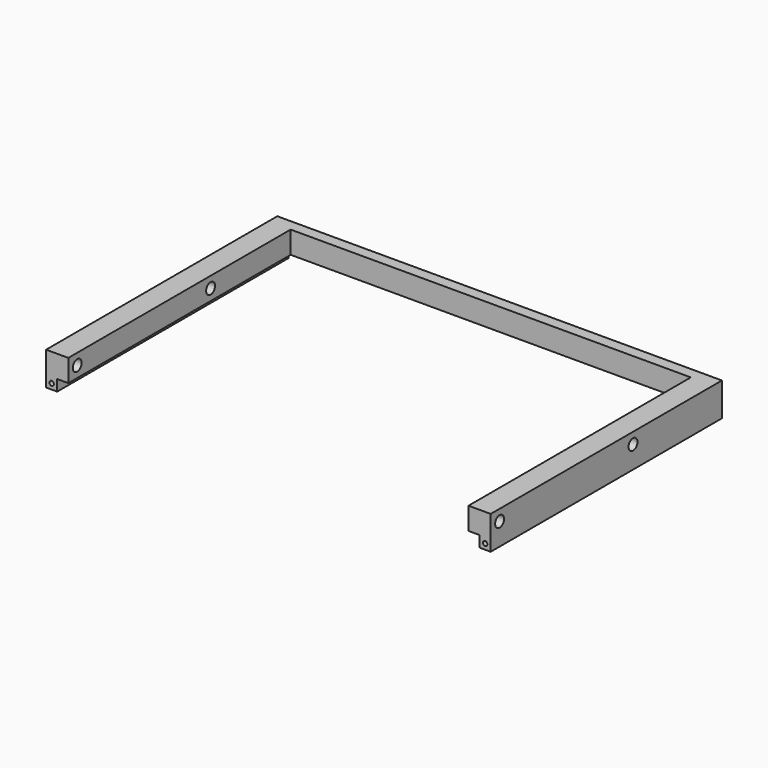
from build123d import *

# Parameters (mm, degrees)
F0_W      = 1300
F0_H      = 150
F1_DEPTH  = 50
F2_W      = 1300
F2_H      = 100
F3_DEPTH  = 50
F4_W      = 50
F4_H      = 100
F5_DEPTH  = 1800
F6_DEPTH  = 100
F7_W      = 100
F7_H      = 100
F8_DEPTH  = 1250
F9_W      = 50
F9_H      = 1300
F10_DEPTH = 50
F11_R     = 25
F12_DEPTH = 200
F13_R     = 25
F14_DEPTH = 200
F15_R     = 10
F16_DEPTH = 25
F17_R     = 10
F18_DEPTH = 25


with BuildPart() as f1:
    # F0 (on Right) → F1 (new body)
    with BuildSketch(Plane.YZ):
        Rectangle(F0_W, F0_H)
    extrude(amount=F1_DEPTH)

    # F2 (on face) → F3 (join)
    with BuildSketch(Plane.YZ.offset(50)):
        with Locations((0, 25)):
            Rectangle(F2_W, F2_H)
    extrude(amount=F3_DEPTH)

    # F4 (on face) → F5 (join)
    with BuildSketch(Plane.YZ.offset(100)):
        with Locations((625, 25)):
            Rectangle(F4_W, F4_H)
    extrude(amount=F5_DEPTH)

    # F6 (add): a face of the model
    f6_faces = [f1.faces().sort_by_distance(p)[0] for p in [
        (1900, 625, 25),
    ]]
    extrude(f6_faces, amount=F6_DEPTH)

    # F7 (on face) → F8 (join)
    with BuildSketch(Plane.XZ.offset(-600)):
        with Locations((1950, 25)):
            Rectangle(F7_W, F7_H)
    extrude(amount=F8_DEPTH)

    # F9 (on face) → F10 (join)
    with BuildSketch(Plane(origin=(0, 0, -25), x_dir=(1, 0, 0), z_dir=(0, 0, -1))):
        with Locations((1975, 0)):
            Rectangle(F9_W, F9_H)
    extrude(amount=F10_DEPTH)

    # F11 (on face) → F12 (cut)
    with BuildSketch(Plane.YZ.offset(100)):
        with Locations((150, 25)):
            Circle(F11_R)
        with Locations((-600, 25)):
            Circle(F11_R)
    extrude(amount=-F12_DEPTH, mode=Mode.SUBTRACT)

    # F13 (on face) → F14 (cut)
    with BuildSketch(Plane(origin=(1900, 0, 0), x_dir=(0, -1, 0), z_dir=(-1, 0, 0))):
        with Locations((-150, 25)):
            Circle(F13_R)
        with Locations((600, 25)):
            Circle(F13_R)
    extrude(amount=-F14_DEPTH, mode=Mode.SUBTRACT)

    # F15 (on face) → F16 (cut)
    with BuildSketch(Plane.XZ.offset(650)):
        with Locations((25, -50)):
            Circle(F15_R)
    extrude(amount=-F16_DEPTH, mode=Mode.SUBTRACT)

    # F17 (on face) → F18 (cut)
    with BuildSketch(Plane.XZ.offset(650)):
        with Locations((1975, -50)):
            Circle(F17_R)
    extrude(amount=-F18_DEPTH, mode=Mode.SUBTRACT)


solid = f1.part
